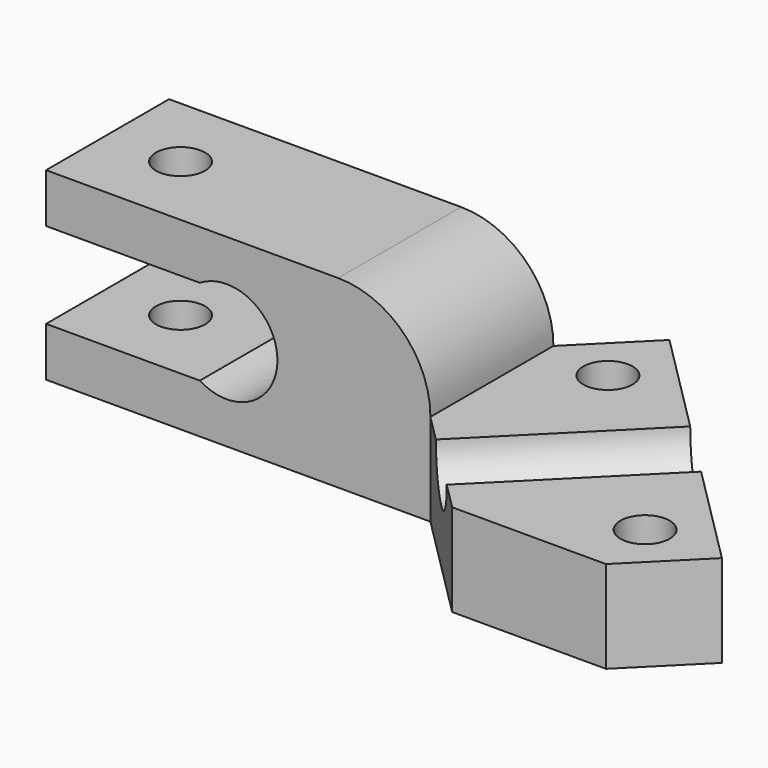
from build123d import *

# Parameters (mm, degrees)
PAD_DEPTH            = 10
SKETCH_R             = 1.6
PAD001_DEPTH         = 6
SKETCH004_R          = 2.5
POCKET_DEPTH         = 27.372693
SKETCH005_R          = 1.6
POCKET001_DEPTH      = 6.001
POCKET001_DEPTH_BACK = -6.001


with BuildPart() as part:
    # Sketch003 → Pad (new body)
    with BuildSketch(Plane.XZ):
        with BuildLine():
            Line((13.253575, -6), (-11.746425, -6))
            Line((-11.746425, -2.8), (-11.746425, -6))
            Line((-1.746425, -2.8), (-11.746425, -2.8))
            ThreePointArc((-1.746425, -2.8), (3.3, 0), (-1.746425, 2.8))
            Line((-1.746425, 2.8), (-11.746425, 2.8))
            Line((-11.746425, 2.8), (-11.746425, 6))
            Line((7.253575, 6), (-11.746425, 6))
            ThreePointArc((13.253575, 0), (11.496216, 4.242641), (7.253575, 6))
            Line((13.253575, 0), (13.253575, -6))
        make_face()
    extrude(amount=PAD_DEPTH)

    # Sketch → Pad001 (join)
    with BuildSketch(Plane.XY):
        Polygon((13.253575, -10), (20.324643, -17.071068), (30.324643, -17.071068), (34.517031, -12.87868), (17.445963, 4.192388), (13.253575, 0), align=None)
        with Locations((17.445963, -0.807612)):
            Circle(SKETCH_R, mode=Mode.SUBTRACT)
        with Locations((29.517031, -12.87868)):
            Circle(SKETCH_R, mode=Mode.SUBTRACT)
    extrude(amount=-PAD001_DEPTH)

    # Sketch004 (on DatumPlane) → Pocket (cut, through all)
    with BuildSketch(Plane(origin=(0, 0, 3.5), x_dir=(0, 0, -1), z_dir=(-0.707107, -0.707107, 0))):
        with Locations((3.5, 21.442761)):
            Circle(SKETCH004_R)
    extrude(amount=-POCKET_DEPTH, mode=Mode.SUBTRACT)

    # Sketch005 → Pocket001 (cut, two sides)
    with BuildSketch(Plane.XY) as pocket001_sk:
        with Locations((-7, -5)):
            Circle(SKETCH005_R)
    extrude(amount=-POCKET001_DEPTH, mode=Mode.SUBTRACT)
    extrude(pocket001_sk.sketch, amount=-POCKET001_DEPTH_BACK, mode=Mode.SUBTRACT)


solid = part.part
